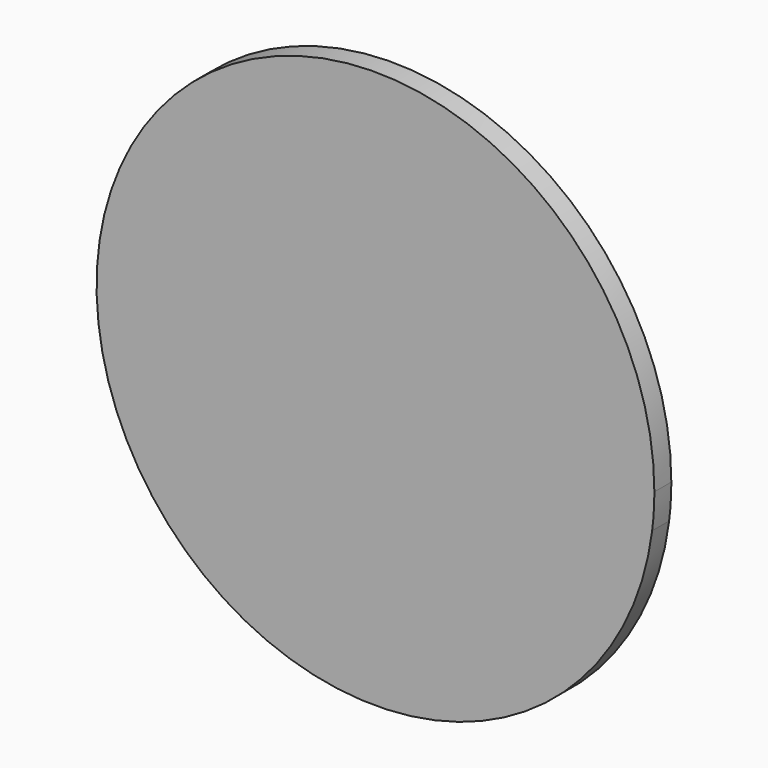
from build123d import *

# Parameters (mm, degrees)
F1_DEPTH = 1.651


with BuildPart() as f1:
    # F0 (on Front) → F1 (new body)
    with BuildSketch(Plane.XZ):
        with BuildLine():
            ThreePointArc((-40.365818, 36.299731), (-40.237254, 37.658077), (-40.194342, 39.021818))
            ThreePointArc((-40.194342, 39.021818), (-64.098759, 60.600255), (-83.126072, 34.619273))
            ThreePointArc((-83.126072, 34.619273), (-61.655283, 33.152552), (-40.365818, 36.299731))
        make_face()
        with BuildLine():
            ThreePointArc((-40.365818, 36.299731), (-61.655283, 33.152552), (-83.126072, 34.619273))
            ThreePointArc((-83.126072, 34.619273), (-61.03413, 17.34695), (-40.365818, 36.299731))
        make_face()
    extrude(amount=F1_DEPTH)


solid = f1.part
